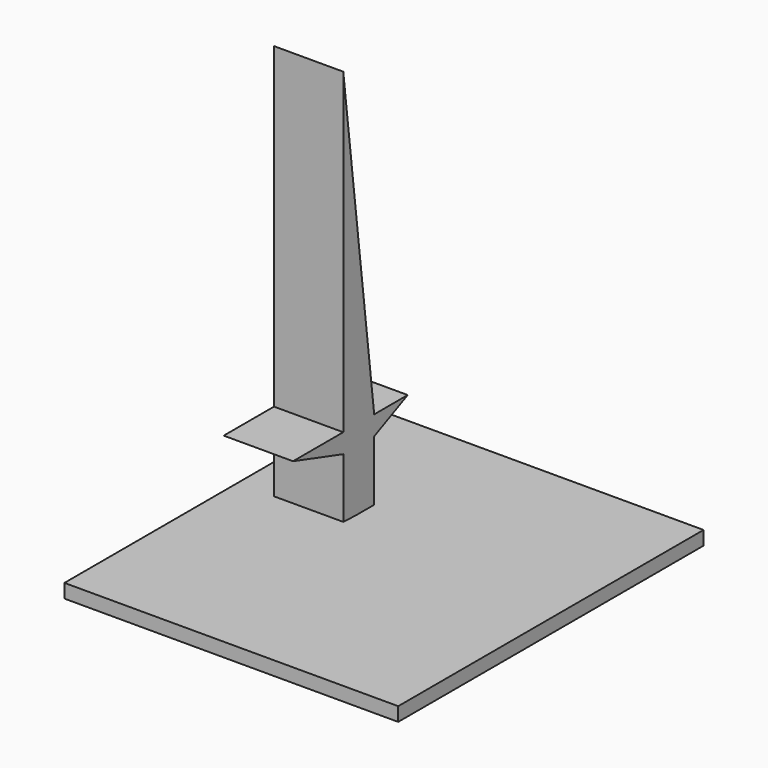
from build123d import *

# Parameters (mm, degrees)
F1_W     = 42.8306325339
F1_H     = 48.977623228
F2_DEPTH = 1.778
F0_W     = 4.9618608318
F0_H     = 2.4809306487
F3_DEPTH = 8.89


with BuildPart() as f2:
    # F1 (on Top) → F2 (new body)
    with BuildSketch(Plane.XY):
        with Locations((16.6563570965, -3.1726385932)):
            Rectangle(F1_W, F1_H)
    extrude(amount=F2_DEPTH)

    # F0 (on Right) → F3 (join)
    with BuildSketch(Plane.YZ):
        Polygon((4.9618608318, 11.9911627844), (0, 52.7197681367), (0, 11.9911627844), align=None)
        with Locations((2.4809304159, 10.75069746)):
            Rectangle(F0_W, F0_H)
        Polygon((10.337209329, 11.9911627844), (4.9618608318, 11.9911627844), (4.9618608318, 9.5102321357), align=None)
        Polygon((0, 9.5102321357), (0, 11.9911627844), (-8.0630229786, 11.9911627844), align=None)
        Polygon((4.9618608318, 1.6539535718), (4.9618608318, 9.5102321357), (0, 9.5102321357), (0, 1.8606976373), align=None)
    extrude(amount=F3_DEPTH)


solid = f2.part
